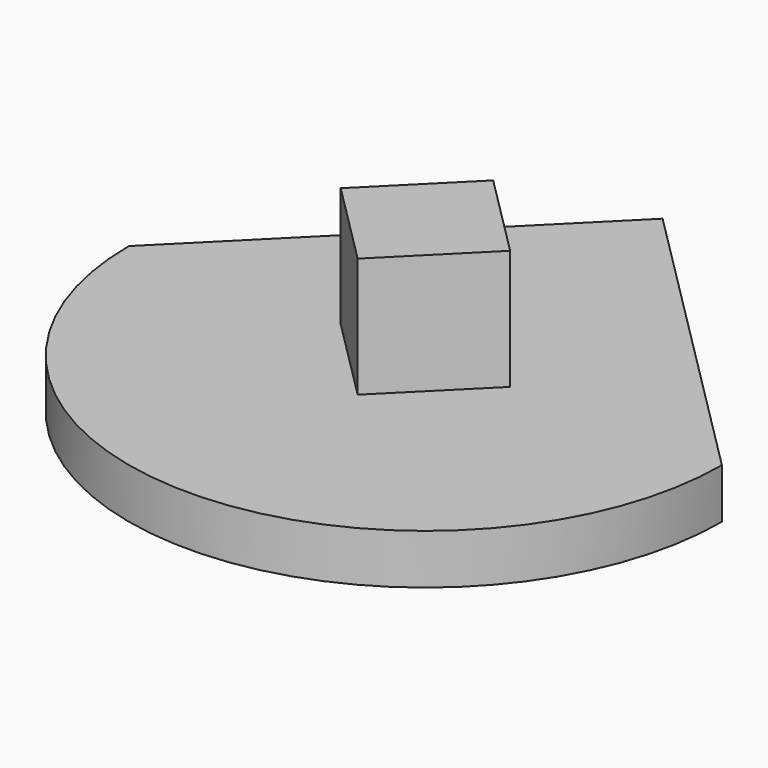
from build123d import *

# Parameters (mm, degrees)
F2_DEPTH = 12
F4_DEPTH = 5
F5_R     = 4.75
F6_DEPTH = 3


with BuildPart() as f2:
    # F1 (on Top) → F2 (new body)
    with BuildSketch(Plane.XY):
        Polygon((-8.4852813742, 0), (0, -8.4852813742), (8.4852813742, 0), (0, 8.4852813742), align=None)
    extrude(amount=F2_DEPTH)

    # F3 (on Top) → F4 (join)
    with BuildSketch(Plane.XY):
        with BuildLine():
            Line((0, 29.6984848098), (-29.6984848098, 0))
            ThreePointArc((-29.6984848098, 0), (0, -29.6984848098), (29.6984848098, 0))
            Line((29.6984848098, 0), (0, 29.6984848098))
        make_face()
    extrude(amount=-F4_DEPTH)

    # F5 (on face) → F6 (cut)
    with BuildSketch(Plane(origin=(0, 0, -5), x_dir=(1, 0, 0), z_dir=(0, 0, -1))):
        with Locations((0, -11.6984848098)):
            Circle(F5_R)
        with Locations((-13.2155881356, 11.7721958357)):
            Circle(F5_R)
        with Locations((13.2155881356, 11.7721958357)):
            Circle(F5_R)
    extrude(amount=-F6_DEPTH, mode=Mode.SUBTRACT)


solid = f2.part
